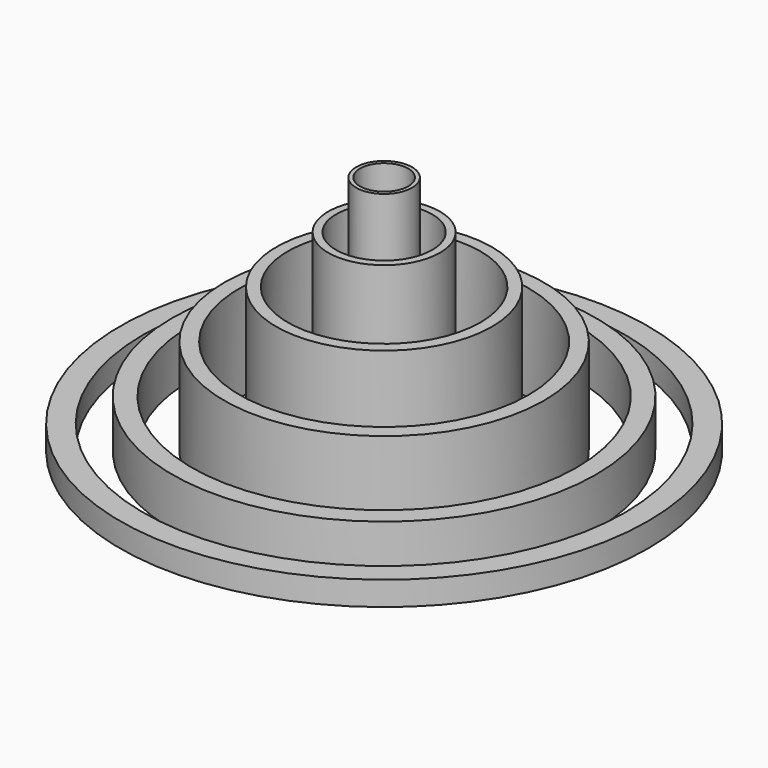
from build123d import *

# Parameters (mm, degrees)
F0_R     = 2.9
F0_R_2   = 2.5
F1_DEPTH = 25
F0_R_3   = 5.8
F0_R_4   = 5
F2_DEPTH = 20
F0_R_5   = 11.2
F0_R_6   = 10
F3_DEPTH = 15
F0_R_7   = 16.6
F0_R_8   = 15
F4_DEPTH = 10
F0_R_9   = 22
F0_R_10  = 20
F5_DEPTH = 5
F0_R_11  = 27.4
F0_R_12  = 25
F6_DEPTH = 2.5


with BuildPart() as f1:
    # F0 (on Top) → F1 (new body)
    with BuildSketch(Plane.XY):
        Circle(F0_R)
        Circle(F0_R_2, mode=Mode.SUBTRACT)
    extrude(amount=F1_DEPTH)


with BuildPart() as f2:
    # F0 (on Top) → F2 (new body)
    with BuildSketch(Plane.XY):
        Circle(F0_R_3)
        Circle(F0_R_4, mode=Mode.SUBTRACT)
    extrude(amount=F2_DEPTH)


with BuildPart() as f3:
    # F0 (on Top) → F3 (new body)
    with BuildSketch(Plane.XY):
        Circle(F0_R_5)
        Circle(F0_R_6, mode=Mode.SUBTRACT)
    extrude(amount=F3_DEPTH)


with BuildPart() as f4:
    # F0 (on Top) → F4 (new body)
    with BuildSketch(Plane.XY):
        Circle(F0_R_7)
        Circle(F0_R_8, mode=Mode.SUBTRACT)
    extrude(amount=F4_DEPTH)


with BuildPart() as f5:
    # F0 (on Top) → F5 (new body)
    with BuildSketch(Plane.XY):
        Circle(F0_R_9)
        Circle(F0_R_10, mode=Mode.SUBTRACT)
    extrude(amount=F5_DEPTH)


with BuildPart() as f6:
    # F0 (on Top) → F6 (new body)
    with BuildSketch(Plane.XY):
        Circle(F0_R_11)
        Circle(F0_R_12, mode=Mode.SUBTRACT)
    extrude(amount=F6_DEPTH)


solid = Compound([f1.part, f2.part, f3.part, f4.part, f5.part, f6.part])
